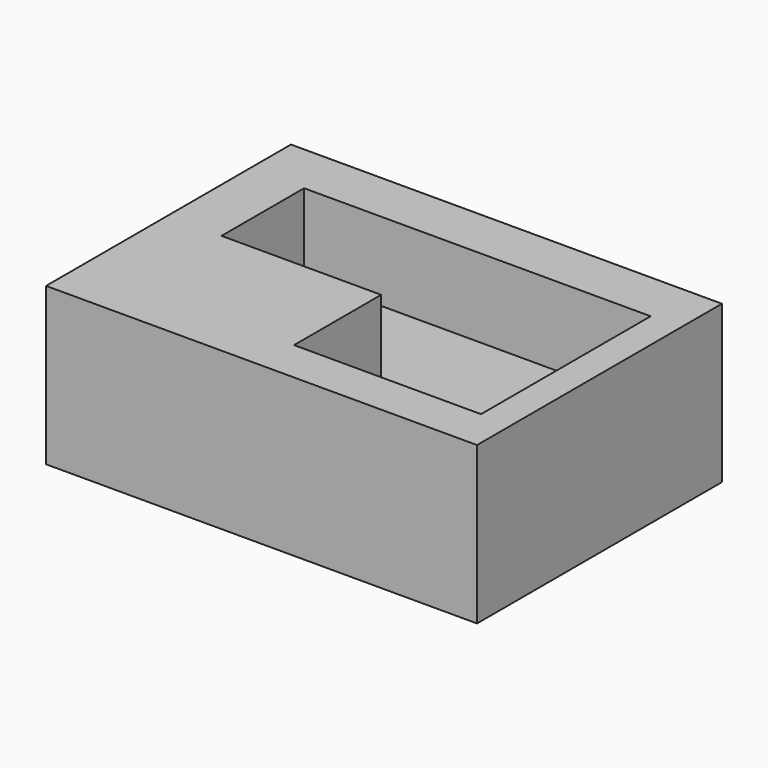
from build123d import *

# Parameters (mm, degrees)
F0_W     = 137.177423
F0_H     = 97.43952
F1_DEPTH = 50
F3_DEPTH = 25


with BuildPart() as f1:
    # F0 (on Top) → F1 (new body)
    with BuildSketch(Plane.XY):
        with Locations((0.544355, 0.453629)):
            Rectangle(F0_W, F0_H)
    extrude(amount=F1_DEPTH)

    # F2 (on face) → F3 (cut)
    with BuildSketch(Plane.XY.offset(50)):
        Polygon((59.516128, 32.842744), (-50.806455, 32.842744), (-50.806455, 0), (0, 0), (0, -34.657259), (59.516128, -34.657259), align=None)
    extrude(amount=-F3_DEPTH, mode=Mode.SUBTRACT)


solid = f1.part
